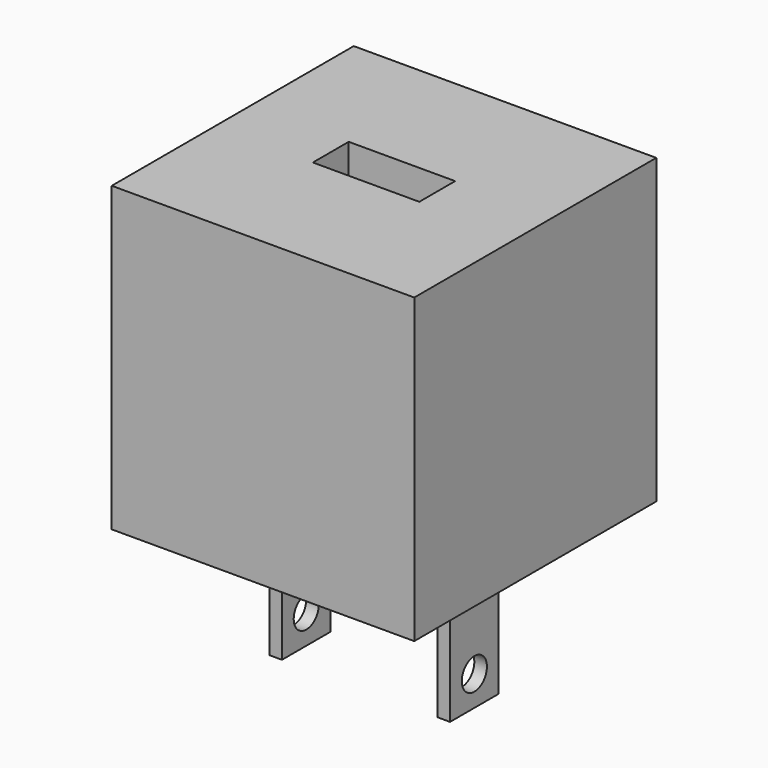
from build123d import *

# Parameters (mm, degrees)
F0_W     = 54
F0_H     = 54
F1_DEPTH = 54
F2_W     = 19
F2_H     = 8
F3_DEPTH = 10
F4_W     = 2.25403
F4_H     = 10.847496
F5_DEPTH = 25
F6_R     = 2.804292
F7_DEPTH = 3


with BuildPart() as f1:
    # F0 (on Top) → F1 (new body)
    with BuildSketch(Plane.XY):
        Rectangle(F0_W, F0_H)
    extrude(amount=F1_DEPTH)

    # F2 (on face) → F3 (cut)
    with BuildSketch(Plane.XY.offset(54)):
        Rectangle(F2_W, F2_H)
    extrude(amount=-F3_DEPTH, mode=Mode.SUBTRACT)

    # F4 (on face) → F5 (join)
    with BuildSketch(Plane(origin=(0, 0, 0), x_dir=(1, 0, 0), z_dir=(0, 0, -1))):
        with Locations((-15.003354, 0)):
            Rectangle(F4_W, F4_H)
    extrude(amount=F5_DEPTH)

    # F6 (on face) → F7 (cut)
    with BuildSketch(Plane(origin=(-16.130369, 0, 0), x_dir=(0, -1, 0), z_dir=(-1, 0, 0))):
        with Locations((0, -19.652281)):
            Circle(F6_R)
    extrude(amount=-F7_DEPTH, mode=Mode.SUBTRACT)

    # F8: F1 across plane


with BuildPart() as f1_1:
    add(f1.part)
    add(f1.part.mirror(Plane.YZ))


solid = f1_1.part
